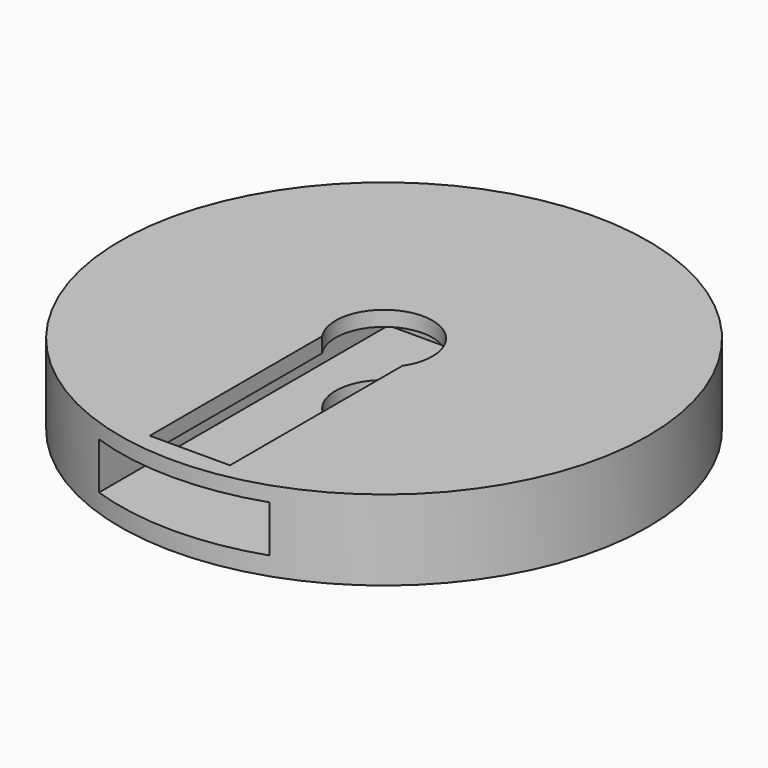
from build123d import *

# Parameters (mm, degrees)
F0_R     = 39.5
F0_R_2   = 7.25
F1_DEPTH = 12
F4_W     = 25.5
F4_H     = 66.75
F5_DEPTH = 7
F7_DEPTH = 5


with BuildPart() as f1:
    # F0 (on Top) → F1 (new body)
    with BuildSketch(Plane.XY):
        Circle(F0_R)
        Circle(F0_R_2, mode=Mode.SUBTRACT)
    extrude(amount=F1_DEPTH)

    # F4 (on offset) → F5 (cut)
    with BuildSketch(Plane.XY.offset(2.75)):
        with Locations((0, -16.625)):
            Rectangle(F4_W, F4_H)
    extrude(amount=F5_DEPTH, mode=Mode.SUBTRACT)

    # F6 (on face) → F7 (cut)
    with BuildSketch(Plane.XY.offset(12)):
        with BuildLine():
            Line((6, -36.331318), (6, 0))
            ThreePointArc((6, 0), (0, 6), (-6, 0))
            Line((-6, 0), (-6, -36.331318))
            Line((-6, -36.331318), (6, -36.331318))
        make_face()
    extrude(amount=-F7_DEPTH, mode=Mode.SUBTRACT)


solid = f1.part
